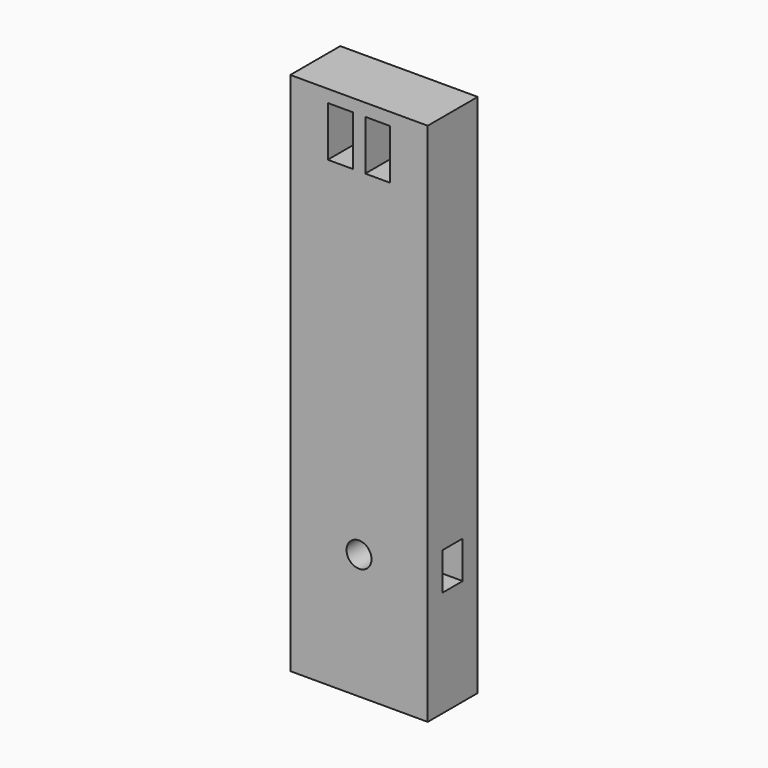
from build123d import *

# Parameters (mm, degrees)
F0_W     = 110
F0_H     = 420
F1_DEPTH = 50
F3_D     = 20
F3_DEPTH = 20
F3_TIP   = 6.0086061903
F2_W     = 20
F2_H     = 40
F4_DEPTH = 40
F5_W     = 20
F5_H     = 30
F6_DEPTH = 25


with BuildPart() as f1:
    # F0 (on Front) → F1 (new body)
    with BuildSketch(Plane.XZ):
        Rectangle(F0_W, F0_H)
    extrude(amount=-F1_DEPTH)

    # F3
    with Locations(Plane.XZ):
        with Locations((0, -110)):
            Hole(F3_D / 2, depth=F3_DEPTH)
            with Locations((0, 0, -(F3_DEPTH + F3_TIP / 2))):  # 118° drill point
                Cone(0, F3_D / 2, F3_TIP, mode=Mode.SUBTRACT)

    # F2 (on face) → F4 (cut)
    with BuildSketch(Plane.XZ):
        with Locations((-15, 180)):
            Rectangle(F2_W, F2_H)
        with Locations((15, 180)):
            Rectangle(F2_W, F2_H)
    extrude(amount=-F4_DEPTH, mode=Mode.SUBTRACT)

    # F5 (on face) → F6 (cut)
    with BuildSketch(Plane.YZ.offset(55)):
        with Locations((25, -110)):
            Rectangle(F5_W, F5_H)
    extrude(amount=-F6_DEPTH, mode=Mode.SUBTRACT)


solid = f1.part
